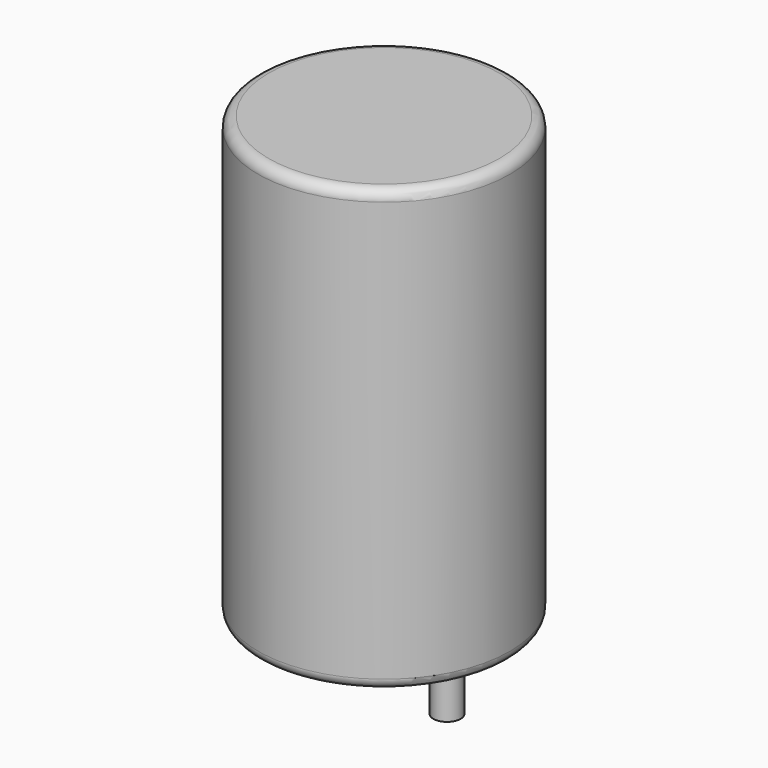
from build123d import *

# Parameters (mm, degrees)
SKETCH001_R       = 0.65
PAD001_DEPTH      = 10.5
PAD001_DEPTH_BACK = 3.5
SKETCH_R          = 6
PAD_DEPTH         = 21
FILLET_R          = 0.5


with BuildPart() as pad001:
    # Sketch001 → Pad001 (new body, two sides)
    with BuildSketch(Plane.XY.offset(0.5)) as pad001_sk:
        Circle(SKETCH001_R)
        with Locations((6, 0)):
            Circle(SKETCH001_R)
    extrude(amount=PAD001_DEPTH)
    extrude(pad001_sk.sketch, amount=-PAD001_DEPTH_BACK)


with BuildPart() as fillet_body:
    # Sketch → Pad (new body)
    with BuildSketch(Plane.XY.offset(0.1)):
        with Locations((3, 0)):
            Circle(SKETCH_R)
    extrude(amount=PAD_DEPTH)

    # Fillet
    fillet_edges = [fillet_body.edges().sort_by_distance(p)[0] for p in [
        (-3, 0, 0.1),
        (-3, 0, 21.1),
    ]]
    fillet(fillet_edges, radius=FILLET_R)


solid = Compound([pad001.part, fillet_body.part])
